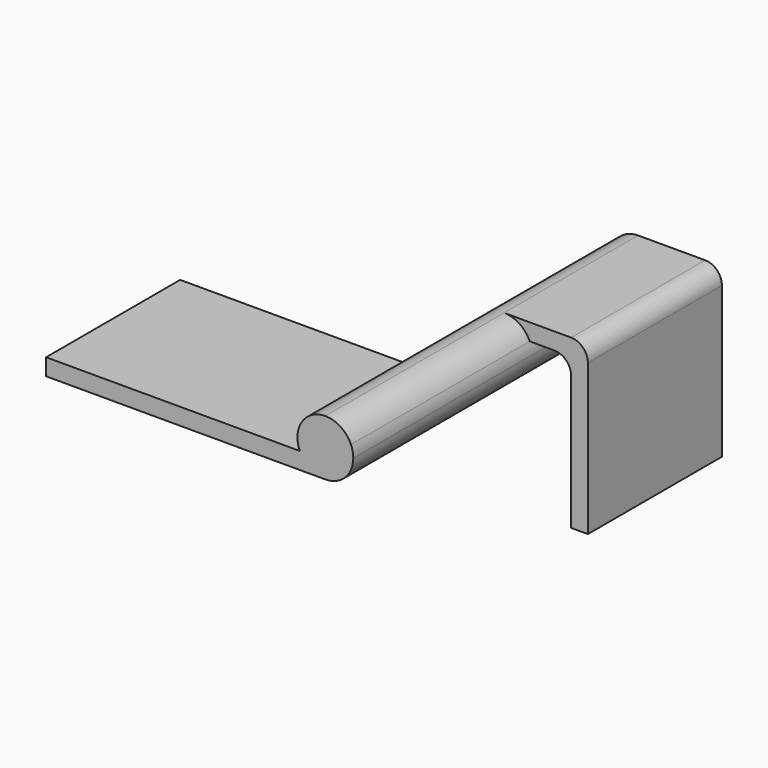
from build123d import *

# Parameters (mm, degrees)
F1_DEPTH = 70
F2_DEPTH = 30
F4_DEPTH = 30


with BuildPart() as f1:
    # F0 (on Front) → F1 (new body)
    with BuildSketch(Plane.XZ):
        with BuildLine():
            Line((0, 2), (0, 5))
            ThreePointArc((0, 5), (-3.535534, -3.535534), (5, 0))
            ThreePointArc((5, 0), (4.894532, 1.021548), (4.582576, 2))
            Line((4.582576, 2), (0, 2))
        make_face()
        with BuildLine():
            ThreePointArc((4.582576, 2), (2.738613, 4.1833), (0, 5))
            Line((0, 5), (0, 2))
            Line((0, 2), (4.582576, 2))
        make_face()
    extrude(amount=F1_DEPTH)

    # F0 (on Front) → F2 (join)
    with BuildSketch(Plane.XZ):
        with BuildLine():
            Line((12, 5), (0, 5))
            ThreePointArc((0, 5), (2.738613, 4.1833), (4.582576, 2))
            Line((4.582576, 2), (9, 2))
            ThreePointArc((9, 2), (11.12132, 1.12132), (12, -1))
            Line((12, -1), (12, -25))
            Line((12, -25), (15, -25))
            Line((15, -25), (15, -3))
            Line((15, -3), (15, 2))
            ThreePointArc((15, 2), (14.12132, 4.12132), (12, 5))
        make_face()
    extrude(amount=F2_DEPTH)

    # F3 (on face) → F4 (join)
    with BuildSketch(Plane.XZ.offset(70)):
        with BuildLine():
            ThreePointArc((0, -5), (-2.738613, -4.1833), (-4.582576, -2))
            Line((-4.582576, -2), (-50, -2))
            Line((-50, -2), (-50, -5))
            Line((-50, -5), (0, -5))
        make_face()
        with BuildLine():
            ThreePointArc((0, -5), (-2.738613, -4.1833), (-4.582576, -2))
            Line((-4.582576, -2), (-50, -2))
            Line((-50, -2), (-50, -5))
            Line((-50, -5), (0, -5))
        make_face()
    extrude(amount=-F4_DEPTH)


solid = f1.part
